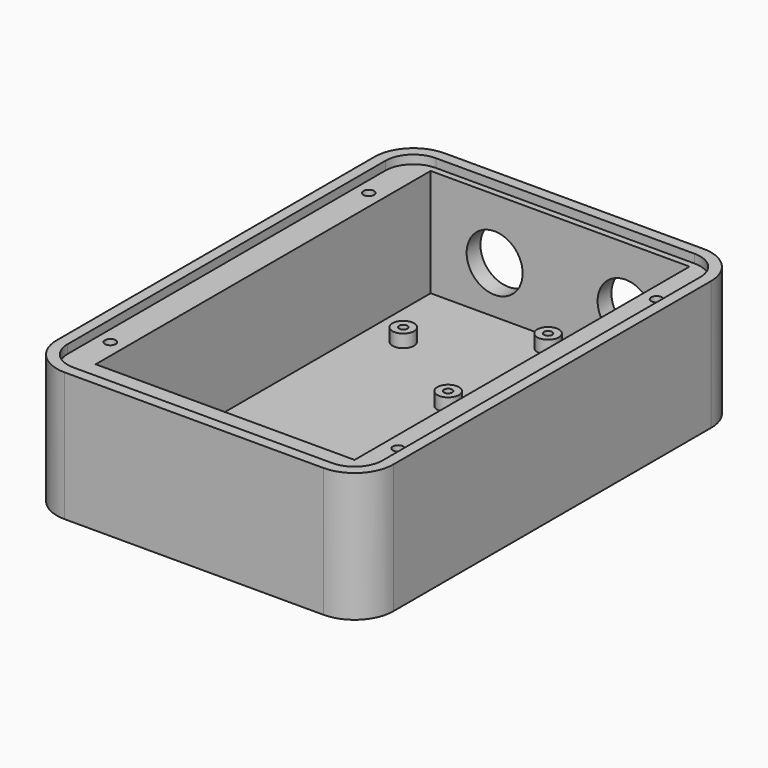
from build123d import *

# Parameters (mm, degrees)
SKETCH_W        = 60.1
SKETCH_H        = 97.2
PAD_DEPTH       = 30
POCKET_DEPTH    = 2
SKETCH002_W     = 60.1
SKETCH002_H     = 97.2
SKETCH002_R     = 0.95
PAD001_DEPTH    = 3
SKETCH003_R     = 2.5
SKETCH003_R_2   = 0.95
PAD002_DEPTH    = 3
SKETCH004_R     = 6.5
POCKET001_DEPTH = 4.001
SKETCH005_R     = 1.25
POCKET002_DEPTH = 28.001


with BuildPart() as part:
    # Sketch → Pad (new body)
    with BuildSketch(Plane.XY):
        with BuildLine():
            Line((0, -9), (60.1, -9))
            ThreePointArc((60.1, -9), (66.463961, -6.363961), (69.1, 0))
            Line((69.1, 0), (69.1, 92.2))
            ThreePointArc((69.1, 92.2), (66.463961, 98.563961), (60.1, 101.2))
            Line((60.1, 101.2), (0, 101.2))
            ThreePointArc((0, 101.2), (-6.363961, 98.563961), (-9, 92.2))
            Line((-9, 92.2), (-9, 0))
            ThreePointArc((-9, 0), (-6.363961, -6.363961), (0, -9))
        make_face()
        with Locations((30.05, 48.6)):
            Rectangle(SKETCH_W, SKETCH_H, mode=Mode.SUBTRACT)
    extrude(amount=PAD_DEPTH)

    # Sketch001 (on Face14 of Pad) → Pocket (cut)
    with BuildSketch(Plane.XY.offset(30)):
        with BuildLine():
            Line((0, 98.7), (60.1, 98.7))
            ThreePointArc((66.6, 92.2), (64.696194, 96.796194), (60.1, 98.7))
            Line((66.6, 92.2), (66.6, 0))
            ThreePointArc((60.1, -6.5), (64.696194, -4.596194), (66.6, 0))
            Line((60.1, -6.5), (0, -6.5))
            ThreePointArc((-6.5, 0), (-4.596194, -4.596194), (0, -6.5))
            Line((-6.5, 0), (-6.5, 92.2))
            ThreePointArc((0, 98.7), (-4.596194, 96.796194), (-6.5, 92.2))
        make_face()
    extrude(amount=-POCKET_DEPTH, mode=Mode.SUBTRACT)

    # Sketch002 (on Face4 of Pocket) → Pad001 (join)
    with BuildSketch(Plane(origin=(0, 0, 0), x_dir=(1, 0, 0), z_dir=(0, 0, -1))):
        with Locations((30.05, -48.6)):
            Rectangle(SKETCH002_W, SKETCH002_H)
        with Locations((8.05, -79.2)):
            Circle(SKETCH002_R, mode=Mode.SUBTRACT)
        with Locations((30.05, -64.7)):
            Circle(SKETCH002_R, mode=Mode.SUBTRACT)
        with Locations((30.05, -93.7)):
            Circle(SKETCH002_R, mode=Mode.SUBTRACT)
    extrude(amount=-PAD001_DEPTH)

    # Sketch003 (on Face24 of Pad001) → Pad002 (join)
    with BuildSketch(Plane.XY.offset(3)):
        with Locations((8.05, 79.2)):
            Circle(SKETCH003_R)
        with Locations((8.05, 79.2)):
            Circle(SKETCH003_R_2, mode=Mode.SUBTRACT)
        with Locations((30.05, 93.7)):
            Circle(SKETCH003_R)
        with Locations((30.05, 93.7)):
            Circle(SKETCH003_R_2, mode=Mode.SUBTRACT)
        with Locations((30.05, 64.7)):
            Circle(SKETCH003_R)
        with Locations((30.05, 64.7)):
            Circle(SKETCH003_R_2, mode=Mode.SUBTRACT)
    extrude(amount=PAD002_DEPTH)

    # Sketch004 (on Face28 of Pad002) → Pocket001 (cut, through all)
    with BuildSketch(Plane.XZ.offset(-97.2)):
        with Locations((14.85, 14)):
            Circle(SKETCH004_R)
        with Locations((45.25, 14)):
            Circle(SKETCH004_R)
    extrude(amount=-POCKET001_DEPTH, mode=Mode.SUBTRACT)

    # Sketch005 (on Face25 of Pocket001) → Pocket002 (cut, through all)
    with BuildSketch(Plane.XY.offset(28)):
        with Locations((-3.35, 83.45)):
            Circle(SKETCH005_R)
        with Locations((-3.35, 8.45)):
            Circle(SKETCH005_R)
        with Locations((63.45, 83.45)):
            Circle(SKETCH005_R)
        with Locations((63.45, 8.45)):
            Circle(SKETCH005_R)
    extrude(amount=-POCKET002_DEPTH, mode=Mode.SUBTRACT)


solid = part.part
